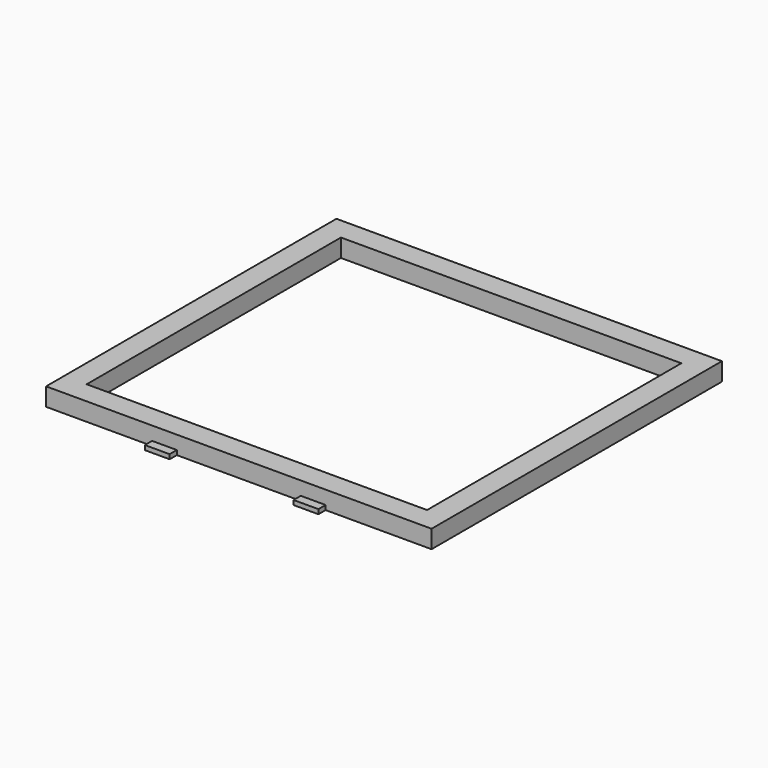
from build123d import *

# Parameters (mm, degrees)
SKETCH006_W     = 85.5
SKETCH006_H     = 80.5
PAD_DEPTH       = 4
SKETCH007_W     = 75.5
SKETCH007_H     = 70.5
POCKET_DEPTH    = 4.001
SKETCH014_W     = 5.5
SKETCH014_H     = 1
PAD002_DEPTH    = 2
SKETCH016_W     = 14
SKETCH016_H     = 1
PAD003_DEPTH    = 1
POCKET001_DEPTH = 3


with BuildPart() as part:
    # Sketch006 → Pad (new body)
    with BuildSketch(Plane.XY):
        Rectangle(SKETCH006_W, SKETCH006_H)
    extrude(amount=PAD_DEPTH)

    # Sketch007 (on Face6 of Pad) → Pocket (cut, through all)
    with BuildSketch(Plane.XY.offset(4)):
        Rectangle(SKETCH007_W, SKETCH007_H)
    extrude(amount=-POCKET_DEPTH, mode=Mode.SUBTRACT)

    # Sketch014 (on Face6 of Pocket) → Pad002 (join)
    with BuildSketch(Plane.XZ.offset(40.25)):
        with Locations((-16.5, 0.5)):
            Rectangle(SKETCH014_W, SKETCH014_H)
        with Locations((16.5, 0.5)):
            Rectangle(SKETCH014_W, SKETCH014_H)
    extrude(amount=PAD002_DEPTH)

    # Sketch016 (on Face1 of Pad002) → Pad003 (join)
    with BuildSketch(Plane(origin=(0, 40.25, 0), x_dir=(-1, 0, 0), z_dir=(0, 1, 0))):
        with Locations((-0.25, 0.5)):
            Rectangle(SKETCH016_W, SKETCH016_H)
    extrude(amount=PAD003_DEPTH)

    # Sketch017 (on Face2 of Pad003) → Pocket001 (cut)
    with BuildSketch(Plane(origin=(0, 40.25, 0), x_dir=(-1, 0, 0), z_dir=(0, 1, 0))):
        with BuildLine():
            ThreePointArc((-7.5, 3.5), (-8, 3), (-7.5, 2.5))
            Line((-7.5, 2.5), (7.5, 2.5))
            ThreePointArc((7.5, 2.5), (8, 3), (7.5, 3.5))
            Line((-7.5, 3.5), (7.5, 3.5))
        make_face()
    extrude(amount=-POCKET001_DEPTH, mode=Mode.SUBTRACT)


solid = part.part
